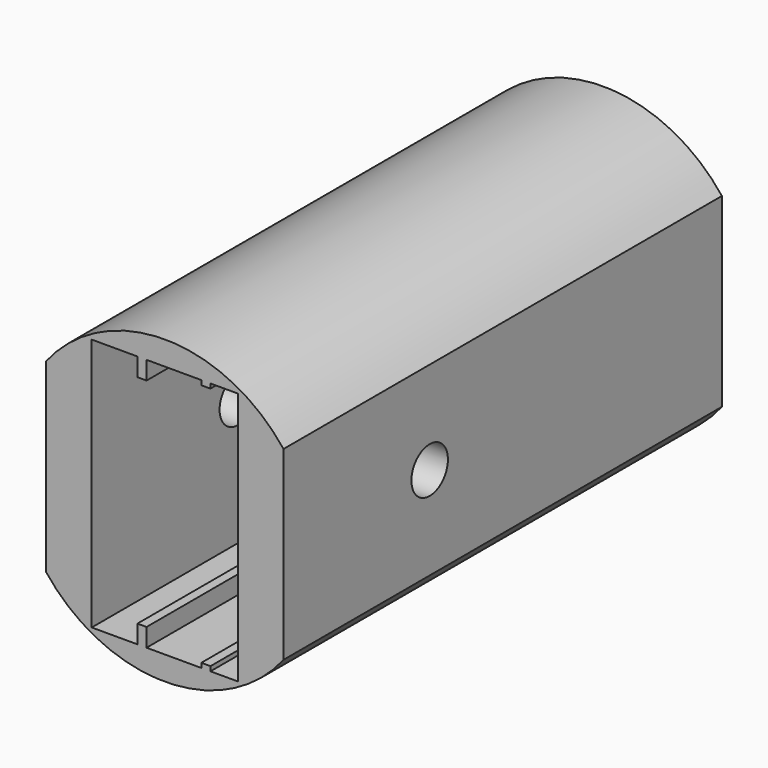
from build123d import *

# Parameters (mm, degrees)
F1_DEPTH  = 120
F2_DEPTH  = 10
F3_DEPTH  = 45
F4_D      = 4
F4_DEPTH  = 15
F4_TIP    = 1.2017212381
F6_D      = 10
F7_DEPTH  = 15
F8_W      = 2
F8_H      = 1
F9_DEPTH  = 110
F10_DEPTH = 2


with BuildPart() as f1:
    # F0 (on Front) → F1 (new body)
    with BuildSketch(Plane.XZ):
        with BuildLine():
            Line((26, -20.3224014329), (26, 20.3224014329))
            ThreePointArc((26, 20.3224014329), (0, 33), (-26, 20.3224014329))
            Line((-26, 20.3224014329), (-26, -20.3224014329))
            ThreePointArc((-26, -20.3224014329), (0, -33), (26, -20.3224014329))
        make_face()
        Polygon((-16, -27.75), (-16, 27.75), (-6, 27.75), (-6, 23.75), (-4, 23.75), (-4, 27.75), (16, 27.75), (16, -27.75), (-4, -27.75), (-4, -23.75), (-6, -23.75), (-6, -27.75), align=None, mode=Mode.SUBTRACT)
    extrude(amount=F1_DEPTH)

    # F0 (on Front) → F2 (join)
    with BuildSketch(Plane.XZ):
        Polygon((-4, 27.75), (-4, 23.75), (-4, -23.75), (-4, -27.75), (16, -27.75), (16, 27.75), align=None)
    extrude(amount=F2_DEPTH)

    # F0 (on Front) → F3 (join)
    with BuildSketch(Plane.XZ):
        Polygon((-6, 27.75), (-16, 27.75), (-16, -27.75), (-6, -27.75), (-6, -23.75), (-6, 23.75), align=None)
    extrude(amount=F3_DEPTH)

    # F4
    with Locations(Plane(origin=(0, 0, 0), x_dir=(1, 0, 0), z_dir=(0, 1, 0))):
        with Locations((20, -18), (-20, -18)):
            Hole(F4_D / 2, depth=F4_DEPTH)
            with Locations((0, 0, -(F4_DEPTH + F4_TIP / 2))):  # 118° drill point
                Cone(0, F4_D / 2, F4_TIP, mode=Mode.SUBTRACT)

    # F6 (through all)
    with Locations(Plane.YZ.offset(26)):
        with Locations((-80, 0)):
            Hole(F6_D / 2)

    # F7 (cut): a face of the model
    f7_faces = [f1.faces().sort_by_distance(p)[0] for p in [
        (-11, -45, 0),
    ]]
    extrude(f7_faces, amount=-F7_DEPTH, mode=Mode.SUBTRACT)

    # F8 (on face) → F9 (join, through all)
    with BuildSketch(Plane.XZ.offset(120)):
        with Locations((9, 27.25)):
            Rectangle(F8_W, F8_H)
        with Locations((9, -27.25)):
            Rectangle(F8_W, F8_H)
    extrude(amount=-F9_DEPTH)

    # F10 (cut): a face of the model
    f10_faces = [f1.faces().sort_by_distance(p)[0] for p in [
        (-4, -5, 0),
    ]]
    extrude(f10_faces, amount=-F10_DEPTH, mode=Mode.SUBTRACT)


solid = f1.part
